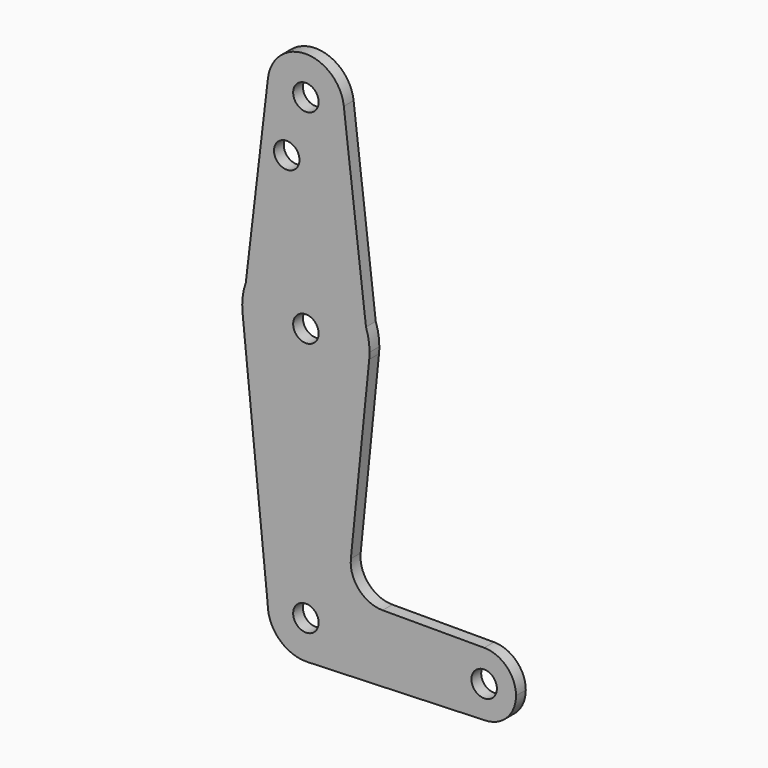
from build123d import *

# Parameters (mm, degrees)
F0_R     = 0.125
F1_DEPTH = 0.12


with BuildPart() as f1:
    # F0 (on Front) → F1 (new body)
    with BuildSketch(Plane.XZ):
        with BuildLine():
            ThreePointArc((-4.7361309042, 4.544082119), (-4.3858102586, 4.125650562), (-3.9887308951, 4.5))
            ThreePointArc((-3.9887308951, 4.5), (-3.9893814572, 4.5220793635), (-3.991330886, 4.544082119))
            ThreePointArc((-3.991330886, 4.544082119), (-4.3637308951, 4.875), (-4.7361309042, 4.544082119))
        make_face()
        with Locations((-4.3637308951, 4.5)):
            Circle(F0_R, mode=Mode.SUBTRACT)
        with BuildLine():
            ThreePointArc((-3.991330886, 4.544082119), (-3.9893814572, 4.5220793635), (-3.9887308951, 4.5))
            ThreePointArc((-3.9887308951, 4.5), (-4.3858102586, 4.125650562), (-4.7361309042, 4.544082119))
            Line((-4.7361309042, 4.544082119), (-4.9536610689, 2.7064155762))
            ThreePointArc((-4.9536610689, 2.7064155762), (-4.3637308951, 3.125), (-3.7738007214, 2.7064155762))
            Line((-3.7738007214, 2.7064155762), (-3.991330886, 4.544082119))
        make_face()
        with Locations((-4.5518772677, 3.938)):
            Circle(F0_R, mode=Mode.SUBTRACT)
        with BuildLine():
            Line((-3.7419118871, 2.4370228512), (-3.7738007214, 2.7064155762))
            ThreePointArc((-3.7738007214, 2.7064155762), (-4.3637308951, 3.125), (-4.9536610689, 2.7064155762))
            Line((-4.9536610689, 2.7064155762), (-4.9855499031, 2.4370228512))
            ThreePointArc((-4.9855499031, 2.4370228512), (-4.3637308951, 1.875), (-3.7419118871, 2.4370228512))
        make_face()
        with Locations((-4.3637308951, 2.5)):
            Circle(F0_R, mode=Mode.SUBTRACT)
        with BuildLine():
            ThreePointArc((-3.7387308951, 2.5), (-3.7475607244, 2.6046867743), (-3.7738007214, 2.7064155762))
            Line((-3.7738007214, 2.7064155762), (-3.7419118871, 2.4370228512))
            ThreePointArc((-3.7419118871, 2.4370228512), (-3.7395266497, 2.468471283), (-3.7387308951, 2.5))
        make_face()
        with BuildLine():
            Line((-4.9855499031, 2.4370228512), (-4.9536610689, 2.7064155762))
            ThreePointArc((-4.9536610689, 2.7064155762), (-4.984397577, 2.5734701984), (-4.9855499031, 2.4370228512))
        make_face()
        with BuildLine():
            Line((-3.9221867085, 0.6570389561), (-3.7419118871, 2.4370228512))
            ThreePointArc((-3.7419118871, 2.4370228512), (-4.3637308951, 1.875), (-4.9855499031, 2.4370228512))
            Line((-4.9855499031, 2.4370228512), (-4.7387308951, 0))
            ThreePointArc((-4.7387308951, 0), (-4.3637308951, 0.375), (-3.9887308951, 0))
            ThreePointArc((-3.9887308951, 0), (-4.0938723012, -0.2603869031), (-4.350338038, -0.3747607655))
            Line((-4.350338038, -0.3747607655), (-2.6025701808, -0.3123006379))
            ThreePointArc((-2.6025701808, -0.3123006379), (-2.9261810506, -0.0055812474), (-2.6137308951, 0.3125))
            Line((-2.6137308951, 0.3125), (-3.6107797493, 0.3125))
            ThreePointArc((-3.6107797493, 0.3125), (-3.8429873001, 0.4156222895), (-3.9221867085, 0.6570389561))
        make_face()
        with BuildLine():
            ThreePointArc((-3.9887308951, 0), (-4.3637308951, 0.375), (-4.7387308951, 0))
            ThreePointArc((-4.7387308951, 0), (-4.6241177982, -0.2698585939), (-4.350338038, -0.3747607655))
            ThreePointArc((-4.350338038, -0.3747607655), (-4.0938723012, -0.2603869031), (-3.9887308951, 0))
        make_face()
        with Locations((-4.3637308951, 0)):
            Circle(F0_R, mode=Mode.SUBTRACT)
        with BuildLine():
            ThreePointArc((-2.3012308951, 0), (-2.392760026, 0.2209708691), (-2.6137308951, 0.3125))
            ThreePointArc((-2.6137308951, 0.3125), (-2.9261810506, -0.0055812474), (-2.6025701808, -0.3123006379))
            ThreePointArc((-2.6025701808, -0.3123006379), (-2.3888487335, -0.2169890859), (-2.3012308951, 0))
        make_face()
        with Locations((-2.6137308951, 0)):
            Circle(F0_R, mode=Mode.SUBTRACT)
    extrude(amount=F1_DEPTH)


solid = f1.part
